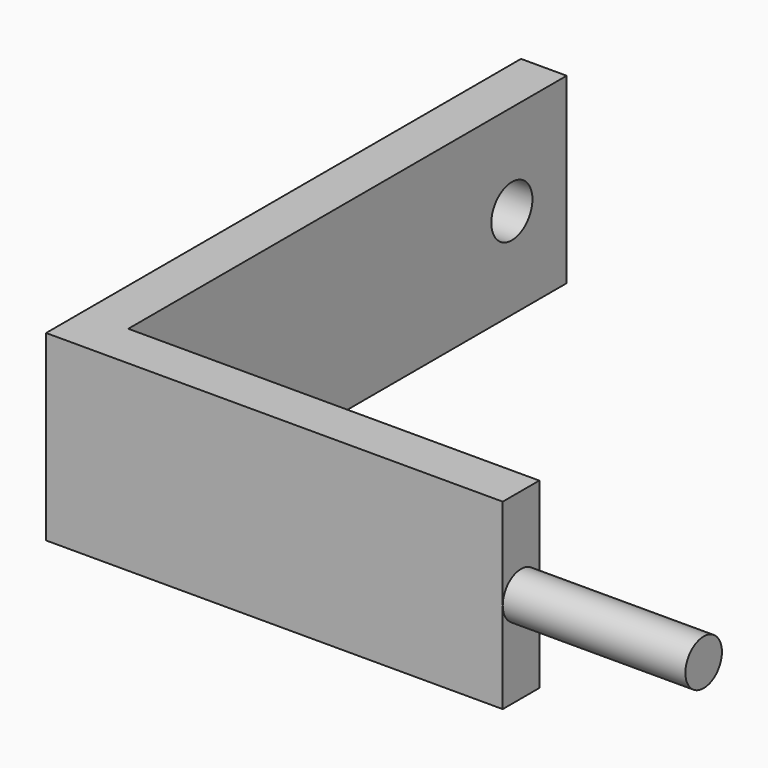
from build123d import *

# Parameters (mm, degrees)
F1_DEPTH = 25.4
F2_R     = 7.14375
F3_DEPTH = 76.201
F5_DEPTH = 50.8


with BuildPart() as f1:
    # F0 (on Top) → F1 (new body, symmetric)
    with BuildSketch(Plane.XY):
        Polygon((-63.5, 88.9), (-76.2, 88.9), (-76.2, -76.2), (50.8, -76.2), (50.8, -63.5), (-63.5, -63.5), align=None)
    extrude(amount=F1_DEPTH, both=True)

    # F2 (on Right) → F3 (cut, through all)
    with BuildSketch(Plane.YZ):
        with Locations((69.85, 0)):
            Circle(F2_R)
    extrude(amount=-F3_DEPTH, mode=Mode.SUBTRACT)

    # F4 (on face) → F5 (join)
    with BuildSketch(Plane.YZ.offset(50.8)):
        with BuildLine():
            ThreePointArc((-76.2, -2.08e-08), (-69.8499999896, -6.35), (-63.5, 0))
            ThreePointArc((-63.5, 0), (-69.8500000104, 6.35), (-76.2, -2.08e-08))
        make_face()
    extrude(amount=F5_DEPTH)


solid = f1.part
